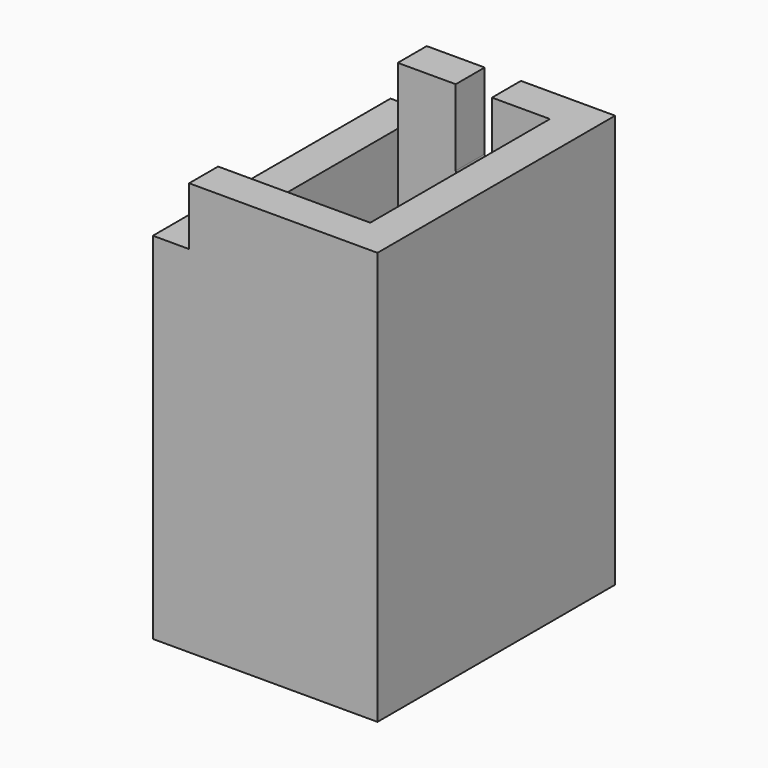
from build123d import *

# Parameters (mm, degrees)
F1_DEPTH = 21
F2_W     = 41
F2_H     = 57
F3_DEPTH = 5
F4_W     = 41
F4_H     = 49
F5_DEPTH = 5
F7_DEPTH = 5


with BuildPart() as f1:
    # F0 (on Right) → F1 (new body)
    with BuildSketch(Plane.YZ):
        Polygon((15.559513, 19), (15.559513, 0), (-15.440487, 0), (-15.440487, 19), (-20.440487, 19), (-20.440487, 0), (-20.440487, -38), (-15.440487, -38), (15.469343, -38), (20.559513, -38), (20.559513, 0), (20.559513, 19), align=None)
    extrude(amount=F1_DEPTH)

    # F2 (on face) → F3 (join)
    with BuildSketch(Plane.YZ.offset(21)):
        with Locations((0.059513, -9.5)):
            Rectangle(F2_W, F2_H)
    extrude(amount=F3_DEPTH)

    # F4 (on face) → F5 (join)
    with BuildSketch(Plane(origin=(0, 0, 0), x_dir=(0, -1, 0), z_dir=(-1, 0, 0))):
        with Locations((-0.059513, -13.5)):
            Rectangle(F4_W, F4_H)
    extrude(amount=F5_DEPTH)

    # F6 (on face) → F7 (cut)
    with BuildSketch(Plane(origin=(0, 20.559513, 0), x_dir=(-1, 0, 0), z_dir=(0, 1, 0))):
        with BuildLine():
            Line((-8, 8.489112), (-8, 19))
            Line((-8, 19), (-13, 19))
            Line((-13, 19), (-13, 8.489112))
            ThreePointArc((-13, 8.489112), (-10.5, 5.989112), (-8, 8.489112))
        make_face()
    extrude(amount=-F7_DEPTH, mode=Mode.SUBTRACT)


solid = f1.part
